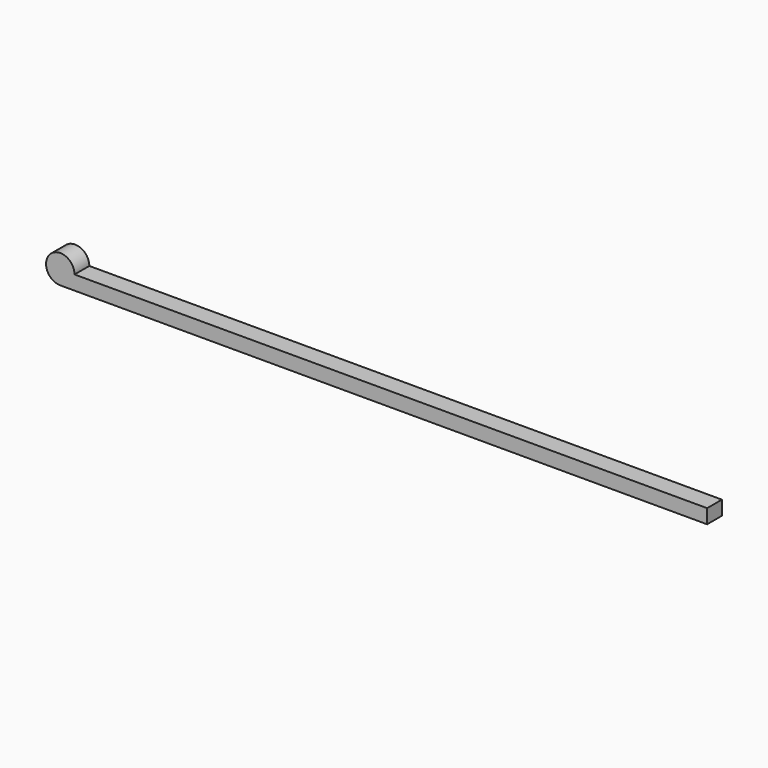
from build123d import *

# Parameters (mm, degrees)
F1_DEPTH = 10


with BuildPart() as f1:
    # F0 (on Front) → F1 (new body)
    with BuildSketch(Plane.XZ):
        with BuildLine():
            Line((350, 0), (7.7, 0))
            ThreePointArc((7.7, 0), (5.444722, -5.444722), (0, -7.7))
            Line((0, -7.7), (350, -7.7))
            Line((350, -7.7), (350, 0))
        make_face()
        with BuildLine():
            Line((0, 0), (7.7, 0))
            ThreePointArc((7.7, 0), (-5.444722, 5.444722), (0, -7.7))
            Line((0, -7.7), (0, 0))
        make_face()
        with BuildLine():
            ThreePointArc((0, -7.7), (5.444722, -5.444722), (7.7, 0))
            Line((7.7, 0), (0, 0))
            Line((0, 0), (0, -7.7))
        make_face()
    extrude(amount=F1_DEPTH)


solid = f1.part
